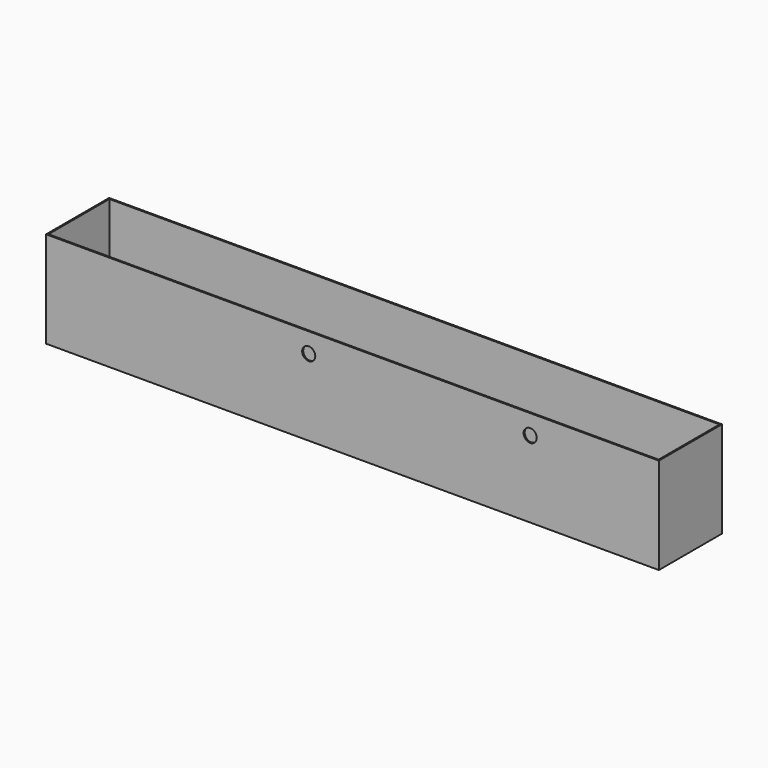
from build123d import *

# Parameters (mm, degrees)
F0_W     = 1400
F0_H     = 180
F1_DEPTH = 220
F2_W     = 1394
F2_H     = 174
F3_DEPTH = 217
F4_R     = 15
F5_DEPTH = 3


with BuildPart() as f1:
    # F0 (on Top) → F1 (new body)
    with BuildSketch(Plane.XY):
        with Locations((653.785665, 53.946961)):
            Rectangle(F0_W, F0_H)
    extrude(amount=F1_DEPTH)

    # F2 (on face) → F3 (cut)
    with BuildSketch(Plane.XY.offset(220)):
        with Locations((653.785665, 53.946961)):
            Rectangle(F2_W, F2_H)
    extrude(amount=-F3_DEPTH, mode=Mode.SUBTRACT)

    # F4 (on face) → F5 (cut, through all)
    with BuildSketch(Plane.XZ.offset(36.053039)):
        with Locations((553.785665, 175)):
            Circle(F4_R)
        with Locations((1059.785665, 175)):
            Circle(F4_R)
    extrude(amount=-F5_DEPTH, mode=Mode.SUBTRACT)


solid = f1.part
